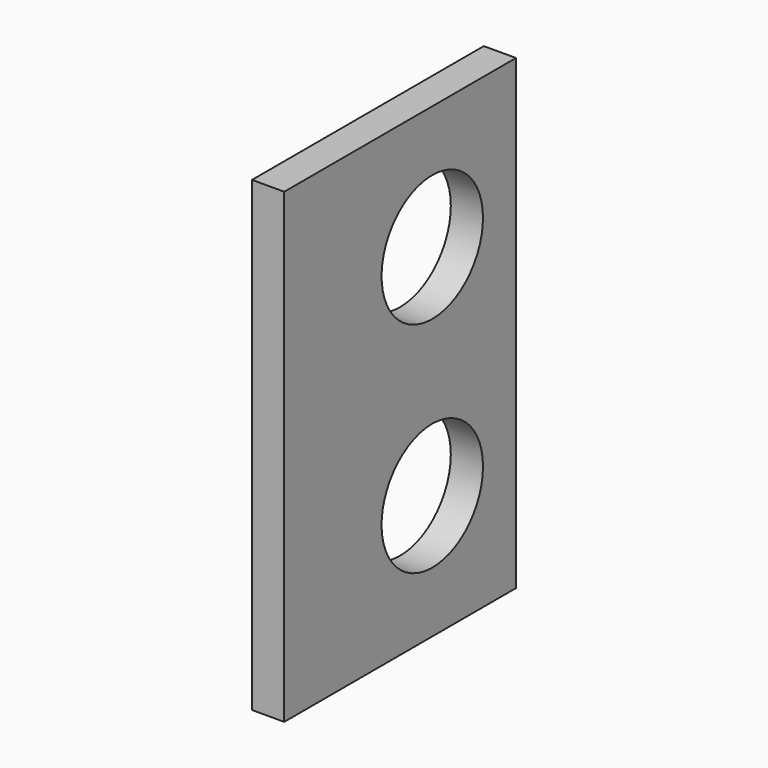
from build123d import *

# Parameters (mm, degrees)
F0_W     = 114.3
F0_H     = 184.15
F1_DEPTH = 6.35


with BuildPart() as f1:
    # F0 (on Right) → F1 (new body, symmetric)
    with BuildSketch(Plane.YZ):
        Rectangle(F0_W, F0_H)
        with BuildLine():
            ThreePointArc((15.875, -18.18), (33.5526695297, -25.5023304703), (40.875, -43.18))
            ThreePointArc((40.875, -43.18), (-1.8026695297, -60.8576695297), (15.875, -18.18))
        make_face(mode=Mode.SUBTRACT)
        with BuildLine():
            ThreePointArc((40.875, 43.18), (33.5526695297, 25.5023304703), (15.875, 18.18))
            ThreePointArc((15.875, 18.18), (-1.8026695297, 60.8576695297), (40.875, 43.18))
        make_face(mode=Mode.SUBTRACT)
    extrude(amount=F1_DEPTH, both=True)


solid = f1.part
